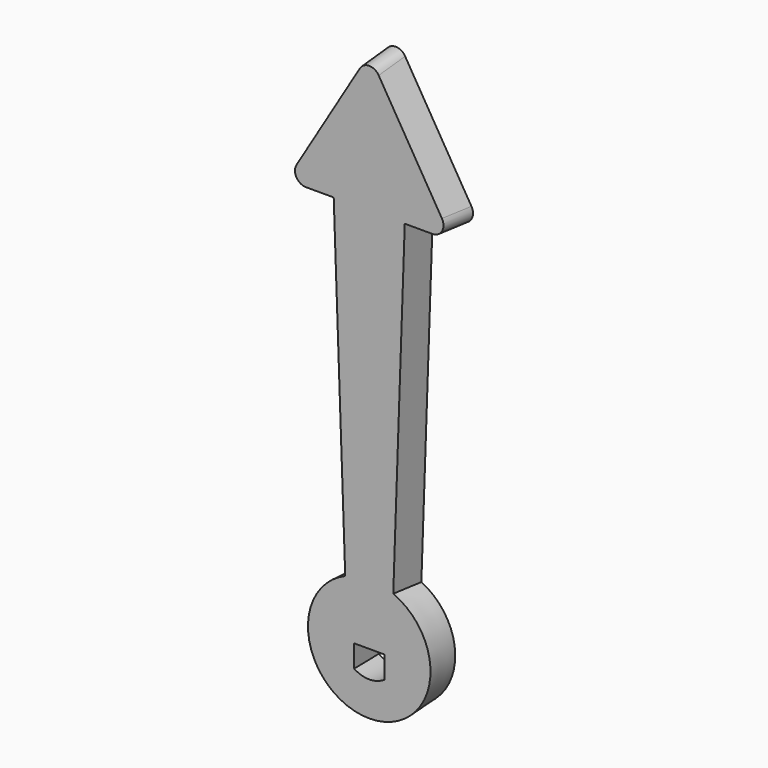
from build123d import *

# Parameters (mm, degrees)
F0_R     = 5.4
F1_DEPTH = 3
F1_TAPER = -3
F3_DEPTH = 3
F3_TAPER = -3
F5_DEPTH = 3
F5_TAPER = -3
F6_R     = 1


with BuildPart() as f1:
    # F0 (on Front) → F1 (new body)
    with BuildSketch(Plane.XZ):
        Circle(F0_R)
        with BuildLine():
            ThreePointArc((1.525, 2.1057955741), (2.3157072354, 1.1821590418), (2.6, 0))
            ThreePointArc((2.6, 0), (2.3157072354, -1.1821590418), (1.525, -2.1057955741))
            ThreePointArc((1.525, -2.1057955741), (0, -2.6), (-1.525, -2.1057955741))
            ThreePointArc((-1.525, -2.1057955741), (-2.6, 0), (-1.525, 2.1057955741))
            ThreePointArc((-1.525, 2.1057955741), (0, 2.6), (1.525, 2.1057955741))
        make_face(mode=Mode.SUBTRACT)
        with BuildLine():
            ThreePointArc((1.525, -2.1057955741), (2.3157072354, -1.1821590418), (2.6, 0))
            ThreePointArc((2.6, 0), (2.3157072354, 1.1821590418), (1.525, 2.1057955741))
            Line((1.525, 2.1057955741), (1.525, -2.1057955741))
        make_face()
        with BuildLine():
            Line((-1.525, -2.1057955741), (-1.525, 2.1057955741))
            ThreePointArc((-1.525, 2.1057955741), (-2.6, 0), (-1.525, -2.1057955741))
        make_face()
    extrude(amount=F1_DEPTH, taper=F1_TAPER)

    # F2 (on face) → F3 (join)
    with BuildSketch(Plane.XZ.offset(3)):
        Polygon((3.2222269322, 35), (0, 35), (-3.2222269322, 35), (-2, 0), (0, 0), (2, 0), align=None)
    extrude(amount=-F3_DEPTH, taper=F3_TAPER)

    # F4 (on face) → F5 (join)
    with BuildSketch(Plane.XZ.offset(3)):
        Polygon((0, 47.5), (-7.5, 35), (-3.2222269322, 35), (3.2222269322, 35), (7.5, 35), align=None)
    extrude(amount=-F5_DEPTH, taper=F5_TAPER)

    # F6
    f6_edges = [f1.edges().sort_by_distance(p)[0] for p in [
        (0, -1.5, 47.652794),
        (-7.638843, -1.5, 34.921388),
        (7.638843, -1.5, 34.921388),
    ]]
    fillet(f6_edges, radius=F6_R)


solid = f1.part
